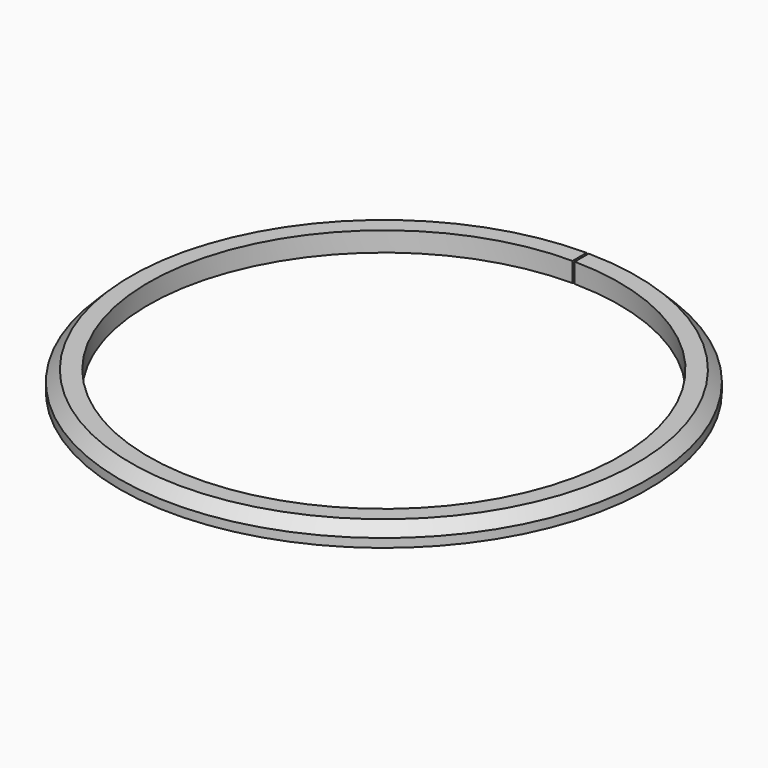
from build123d import *

# Parameters (mm, degrees)
F1_DEPTH = 4.572
F2_SIZE  = 2.54


with BuildPart() as f1:
    # F0 (on Top) → F1 (new body)
    with BuildSketch(Plane.XY):
        with BuildLine():
            ThreePointArc((0.56272, 54.861114), (-0.308723, -54.863131), (0.05472, 54.863973))
            Line((0.05472, 54.863973), (0.05472, 61.477178))
            ThreePointArc((0.05472, 61.477178), (-0.308722, -61.476427), (0.56272, 61.474627))
            Line((0.56272, 61.474627), (0.56272, 54.861114))
        make_face()
    extrude(amount=F1_DEPTH)

    # F2
    f2_edges = [f1.edges().sort_by_distance(p)[0] for p in [
        (-0.308722, -61.476427, 4.572),
    ]]
    chamfer(f2_edges, length=F2_SIZE)


solid = f1.part
